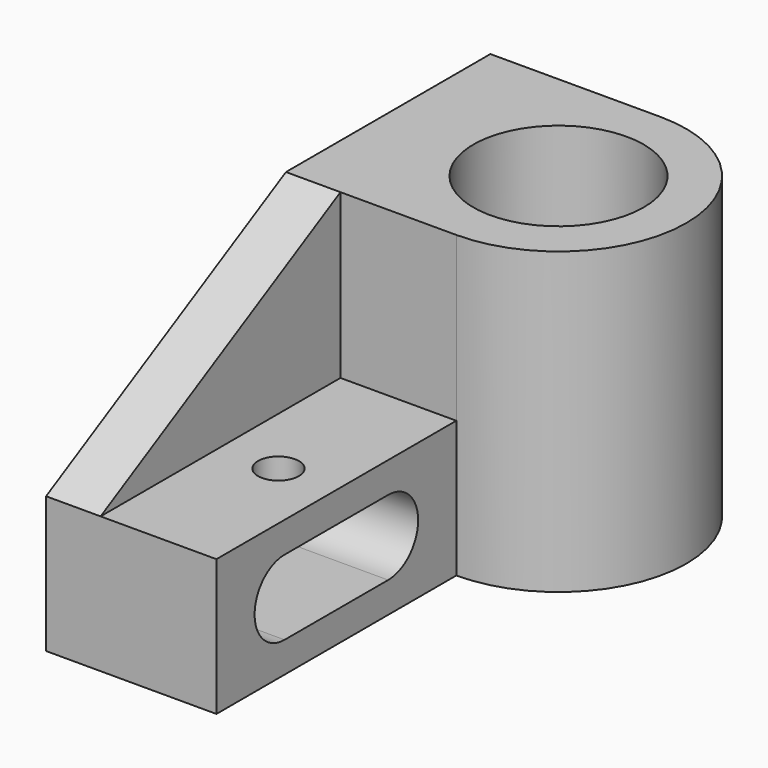
from build123d import *

# Parameters (mm, degrees)
F0_R     = 25
F1_DEPTH = 88
F3_DEPTH = 50
F5_DEPTH = 16
F6_R     = 6
F7_DEPTH = 9


with BuildPart() as f1:
    # F0 (on Top) → F1 (new body)
    with BuildSketch(Plane.XY):
        with BuildLine():
            Line((0, 75), (0, 0))
            Line((0, 0), (50, 0))
            ThreePointArc((50, 0), (87.5, 37.5), (50, 75))
            Line((50, 75), (0, 75))
        make_face()
        with Locations((50, 37.5)):
            Circle(F0_R, mode=Mode.SUBTRACT)
    extrude(amount=F1_DEPTH)

    # F2 (on Right) → F3 (join)
    with BuildSketch(Plane.YZ):
        Polygon((-88, 0), (0, 0), (0, 20), (0, 40), (-88, 40), (-88, 20), align=None)
        with BuildLine():
            ThreePointArc((-25, 31), (-14, 20), (-25, 9))
            Line((-25, 9), (-63, 9))
            ThreePointArc((-63, 9), (-74, 20), (-63, 31))
            Line((-63, 31), (-25, 31))
        make_face(mode=Mode.SUBTRACT)
    extrude(amount=F3_DEPTH)

    # F4 (on Right) → F5 (join)
    with BuildSketch(Plane.YZ):
        Polygon((-88, 40), (0, 40), (0, 88), align=None)
    extrude(amount=F5_DEPTH)

    # F6 (on face) → F7 (cut, through all)
    with BuildSketch(Plane.XY.offset(40)):
        with Locations((33, -44)):
            Circle(F6_R)
    extrude(amount=-F7_DEPTH, mode=Mode.SUBTRACT)


solid = f1.part
